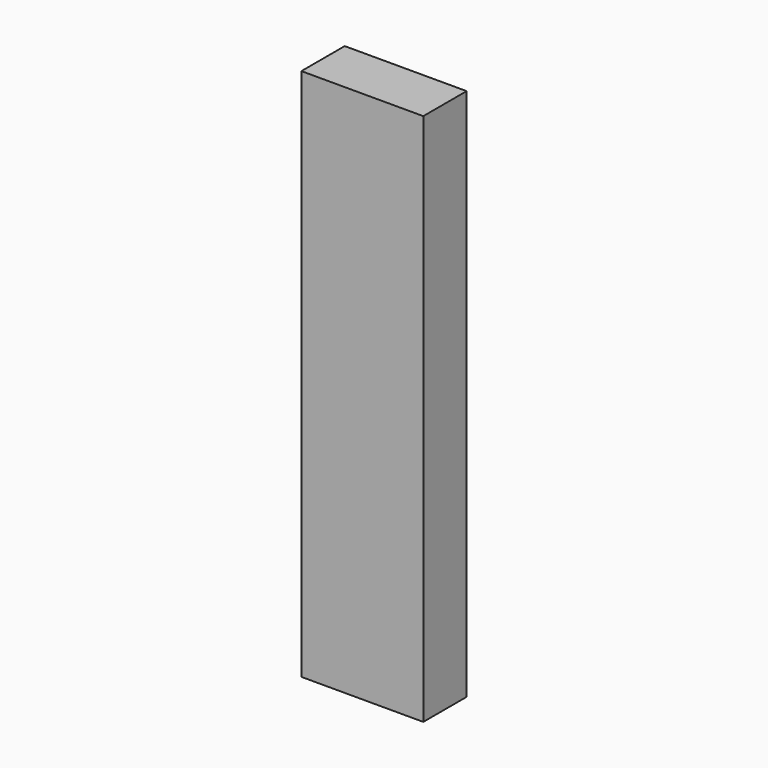
from build123d import *

# Parameters (mm, degrees)
RECTANGLE_W           = 22.86
RECTANGLE_H           = 10.16
EXTRUDE_DEPTH         = 100
CLONE_SCALE_SCALE     = 0.001
CLONE_PLACEMENT_ANGLE = 180


with BuildPart() as extrude_body:
    # Rectangle → Extrude (new body)
    with BuildSketch(Plane(origin=(-11.43, -5.08, 0), x_dir=(1, 0, 0), z_dir=(0, 0, 1))):
        with Locations((11.43, 5.08)):
            Rectangle(RECTANGLE_W, RECTANGLE_H)
    extrude(amount=EXTRUDE_DEPTH)


with BuildPart() as extrude001:
    # Clone base: copy of Extrude body
    add(extrude_body.part)


with BuildPart() as extrude001_1:
    # Clone scale: moved
    add(extrude001.part.scale(CLONE_SCALE_SCALE))


with BuildPart() as extrude001_2:
    # Clone placement: moved
    add(extrude001_1.part.rotate(Axis((0, 0, 0), (1, 0, 0)), CLONE_PLACEMENT_ANGLE))


solid = Compound([extrude_body.part, extrude001_2.part])
